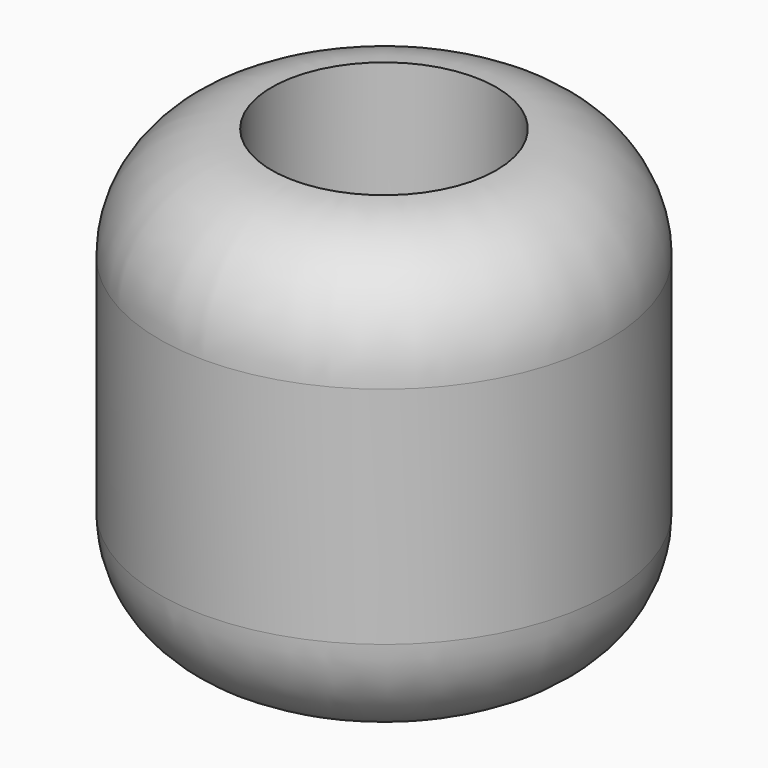
from build123d import *

# Parameters (mm, degrees)
F0_R     = 12.7
F1_DEPTH = 25.4
F2_R     = 6.35
F3_R     = 6.35
F4_DEPTH = 25.4


with BuildPart() as f1:
    # F0 (on Top) → F1 (new body)
    with BuildSketch(Plane.XY):
        Circle(F0_R)
    extrude(amount=F1_DEPTH)

    # F2
    f2_edges = [f1.edges().sort_by_distance(p)[0] for p in [
        (12.7, 0, 12.7),
        (-12.7, 0, 0),
        (-12.7, 0, 25.4),
    ]]
    fillet(f2_edges, radius=F2_R)

    # F3 (on Top) → F4 (cut)
    with BuildSketch(Plane.XY):
        Circle(F3_R)
    extrude(amount=F4_DEPTH, mode=Mode.SUBTRACT)


solid = f1.part
